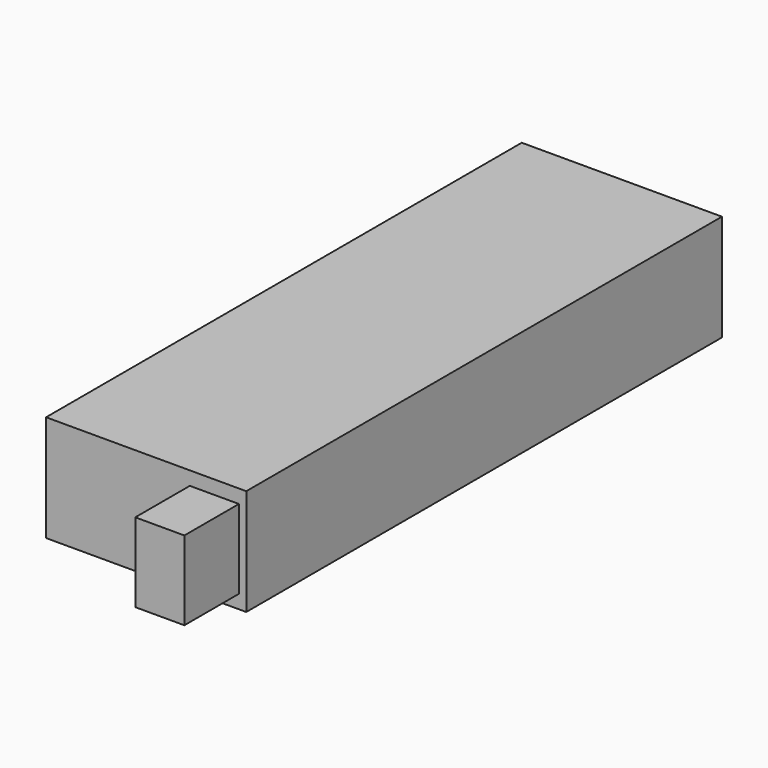
from build123d import *

# Parameters (mm, degrees)
F0_W     = 46.609
F0_H     = 24.765
F1_DEPTH = 138.43
F2_W     = 11.43
F2_H     = 18.415
F3_DEPTH = 15.875


with BuildPart() as f1:
    # F0 (on Front) → F1 (new body)
    with BuildSketch(Plane.XZ):
        Rectangle(F0_W, F0_H)
    extrude(amount=-F1_DEPTH)

    # F2 (on face) → F3 (join)
    with BuildSketch(Plane.XZ):
        with Locations((15.875, 0)):
            Rectangle(F2_W, F2_H)
    extrude(amount=F3_DEPTH)


solid = f1.part
